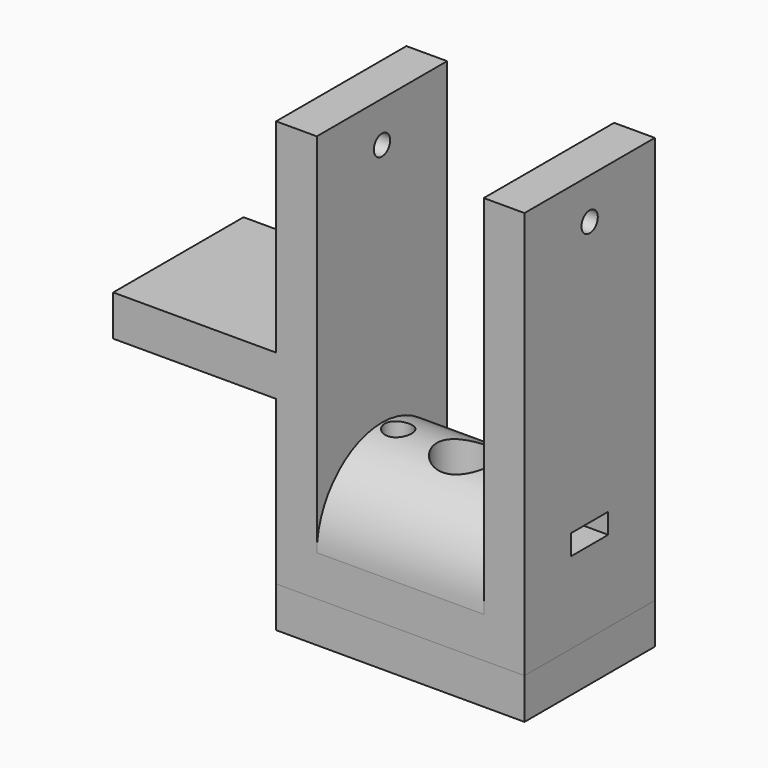
from build123d import *

# Parameters (mm, degrees)
F1_DEPTH  = 10
F3_W      = 30.5
F3_H      = 20
F4_DEPTH  = 5
F5_DEPTH  = 5
F10_DEPTH = 20.5
F6_R      = 3.5
F6_R_2    = 1.65
F11_DEPTH = 55.001
F12_R     = 1.25
F13_DEPTH = 50.501
F7_W      = 5.7
F7_H      = 2.5
F14_DEPTH = 10
F8_W      = 5.7
F8_H      = 2.5
F15_DEPTH = 10


with BuildPart() as f1:
    # F0 (on Front) → F1 (new body, symmetric)
    with BuildSketch(Plane.XZ):
        Polygon((10.25, 5), (0, 5), (-10.25, 5), (-10.25, 50), (-15.25, 50), (-15.25, 25), (-35.25, 25), (-35.25, 20), (-15.25, 20), (-15.25, 0), (0, 0), (15.25, 0), (15.25, 50), (10.25, 50), align=None)
    extrude(amount=F1_DEPTH, both=True)

    # F2 (on face) → F5 (cut)
    with BuildSketch(Plane(origin=(0, 0, 0), x_dir=(1, 0, 0), z_dir=(0, 0, -1))):
        Polygon((2.8867513459, 5), (-2.8867513459, 5), (-5.7735026919, 0), (-2.8867513459, -5), (2.8867513459, -5), (5.7735026919, 0), align=None)
    extrude(amount=-F5_DEPTH, mode=Mode.SUBTRACT)

    # F9 (on face) → F10 (join, through all)
    with BuildSketch(Plane.YZ.offset(-10.25)):
        with BuildLine():
            Line((-10, 5), (10, 5))
            ThreePointArc((10, 5), (0, 15), (-10, 5))
        make_face()
    extrude(amount=F10_DEPTH)


with BuildPart() as f4:
    # F3 (on face) → F4 (new body)
    with BuildSketch(Plane(origin=(0, 0, 0), x_dir=(1, 0, 0), z_dir=(0, 0, -1))):
        Rectangle(F3_W, F3_H)
    extrude(amount=F4_DEPTH)


with BuildPart() as f11_tool:
    # F6 (on face) → F11 (new body, through all)
    with BuildSketch(Plane(origin=(0, 0, -5), x_dir=(1, 0, 0), z_dir=(0, 0, -1))):
        Circle(F6_R)
        with Locations((-8.25, 0)):
            Circle(F6_R_2)
        with Locations((8.25, 0)):
            Circle(F6_R_2)
    extrude(amount=-F11_DEPTH)


with BuildPart() as f1_1:
    add(f1.part)

    # F11: cut by f11_tool
    add(f11_tool.part, mode=Mode.SUBTRACT)

    # F12 (on face) → F13 (cut, through all)
    with BuildSketch(Plane.YZ.offset(15.25)):
        with Locations((0, 45)):
            Circle(F12_R)
    extrude(amount=-F13_DEPTH, mode=Mode.SUBTRACT)

    # F7 (on face) → F14 (cut)
    with BuildSketch(Plane(origin=(-15.25, 0, 0), x_dir=(0, -1, 0), z_dir=(-1, 0, 0))):
        with Locations((0, 11.25)):
            Rectangle(F7_W, F7_H)
    extrude(amount=-F14_DEPTH, mode=Mode.SUBTRACT)

    # F8 (on face) → F15 (cut)
    with BuildSketch(Plane.YZ.offset(15.25)):
        with Locations((0, 11.25)):
            Rectangle(F8_W, F8_H)
    extrude(amount=-F15_DEPTH, mode=Mode.SUBTRACT)


with BuildPart() as f4_1:
    add(f4.part)

    # F11: cut by f11_tool
    add(f11_tool.part, mode=Mode.SUBTRACT)


solid = Compound([f1_1.part, f4_1.part])
